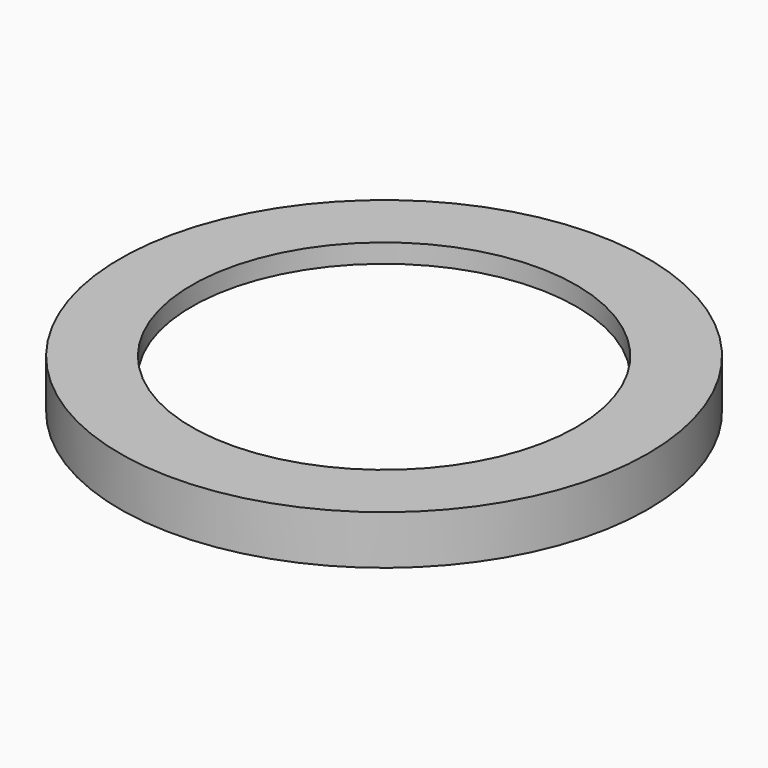
from build123d import *

# Parameters (mm, degrees)
EXPORT_R        = 70
EXPORT_R_2      = 51
PAD_DEPTH       = 13
CHAMFER_SIZE2   = 18
CHAMFER_SIZE    = 8
EXPORT001_R     = 1.5
POCKET_DEPTH    = 11
EXPORT002_R     = 2.7
POCKET001_DEPTH = 6


with BuildPart() as part:
    # Export → Pad (new body)
    with BuildSketch(Plane.XY):
        Circle(EXPORT_R)
        Circle(EXPORT_R_2, mode=Mode.SUBTRACT)
    extrude(amount=PAD_DEPTH)

    # Chamfer
    chamfer_edges = [part.edges().sort_by_distance(p)[0] for p in [
        (-51, 0, 0),
    ]]
    chamfer_side = part.faces().sort_by_distance((-51, 0, 6.5))[0]
    chamfer(chamfer_edges, length=CHAMFER_SIZE, length2=CHAMFER_SIZE2, reference=chamfer_side)

    # Export001 → Pocket (cut)
    with BuildSketch(Plane.XY):
        with Locations((0, 60)):
            Circle(EXPORT001_R)
        with Locations((60, 0)):
            Circle(EXPORT001_R)
        with Locations((0, -60)):
            Circle(EXPORT001_R)
        with Locations((-60, 0)):
            Circle(EXPORT001_R)
    extrude(amount=POCKET_DEPTH, mode=Mode.SUBTRACT)

    # Export002 → Pocket001 (cut)
    with BuildSketch(Plane.XY):
        with Locations((-60, 0)):
            Circle(EXPORT002_R)
        with Locations((0, -60)):
            Circle(EXPORT002_R)
        with Locations((0, 60)):
            Circle(EXPORT002_R)
        with Locations((60, 0)):
            Circle(EXPORT002_R)
    extrude(amount=POCKET001_DEPTH, mode=Mode.SUBTRACT)


solid = part.part
